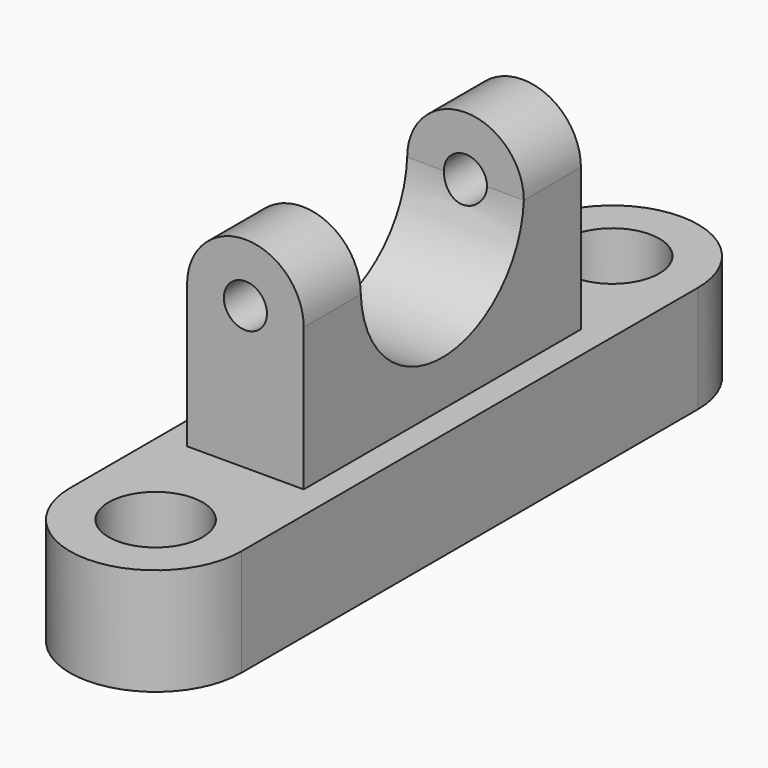
from build123d import *

# Parameters (mm, degrees)
F0_R      = 8.37282
F0_R_2    = 8.3693
F1_DEPTH  = 19.05
F2_W      = 20.754474
F2_H      = 61.66184
F3_DEPTH  = 25.4
F5_DEPTH  = 25.4
F7_DEPTH  = 12.7
F6_R      = 3.8309
F8_DEPTH  = 15.24
F10_DEPTH = 12.7
F9_R      = 3.8354
F11_DEPTH = 15.24


with BuildPart() as f1:
    # F0 (on Top) → F1 (new body)
    with BuildSketch(Plane.XY):
        with BuildLine():
            Line((-15.24, 50.8), (-15.24, 0))
            Line((-15.24, 0), (-15.24, -50.8))
            ThreePointArc((-15.24, -50.8), (0, -66.04), (15.24, -50.8))
            Line((15.24, -50.8), (15.24, 0))
            Line((15.24, 0), (15.24, 50.8))
            ThreePointArc((15.24, 50.8), (0, 66.04), (-15.24, 50.8))
        make_face()
        with Locations((0, -50.8)):
            Circle(F0_R, mode=Mode.SUBTRACT)
        with Locations((0, 50.8)):
            Circle(F0_R_2, mode=Mode.SUBTRACT)
    extrude(amount=F1_DEPTH)

    # F2 (on face) → F3 (join)
    with BuildSketch(Plane.XY.offset(19.05)):
        Rectangle(F2_W, F2_H)
    extrude(amount=F3_DEPTH)

    # F4 (on face) → F5 (cut)
    with BuildSketch(Plane.YZ.offset(10.377237)):
        with BuildLine():
            Line((18.13092, 44.45), (-18.13092, 44.45))
            ThreePointArc((-18.13092, 44.45), (0, 27.163165), (18.13092, 44.45))
        make_face()
    extrude(amount=-F5_DEPTH, mode=Mode.SUBTRACT)

    # F6 (on face) → F7 (join)
    with BuildSketch(Plane.XZ.offset(30.83092)):
        with BuildLine():
            Line((3.8309, 44.45), (10.377237, 44.45))
            ThreePointArc((10.377237, 44.45), (0, 54.827237), (-10.377237, 44.45))
            Line((-10.377237, 44.45), (-3.8309, 44.45))
            ThreePointArc((-3.8309, 44.45), (0, 48.2809), (3.8309, 44.45))
        make_face()
    extrude(amount=-F7_DEPTH)

    # F6 (on face) → F8 (cut)
    with BuildSketch(Plane.XZ.offset(30.83092)):
        with Locations((0, 44.45)):
            Circle(F6_R)
    extrude(amount=-F8_DEPTH, mode=Mode.SUBTRACT)

    # F9 (on face) → F10 (join)
    with BuildSketch(Plane(origin=(0, 30.83092, 0), x_dir=(-1, 0, 0), z_dir=(0, 1, 0))):
        with BuildLine():
            Line((3.8354, 44.45), (10.377237, 44.45))
            ThreePointArc((10.377237, 44.45), (0, 54.827237), (-10.377237, 44.45))
            Line((-10.377237, 44.45), (-3.8354, 44.45))
            ThreePointArc((-3.8354, 44.45), (0, 48.2854), (3.8354, 44.45))
        make_face()
    extrude(amount=-F10_DEPTH)

    # F9 (on face) → F11 (cut)
    with BuildSketch(Plane(origin=(0, 30.83092, 0), x_dir=(-1, 0, 0), z_dir=(0, 1, 0))):
        with Locations((0, 44.45)):
            Circle(F9_R)
    extrude(amount=-F11_DEPTH, mode=Mode.SUBTRACT)


solid = f1.part
